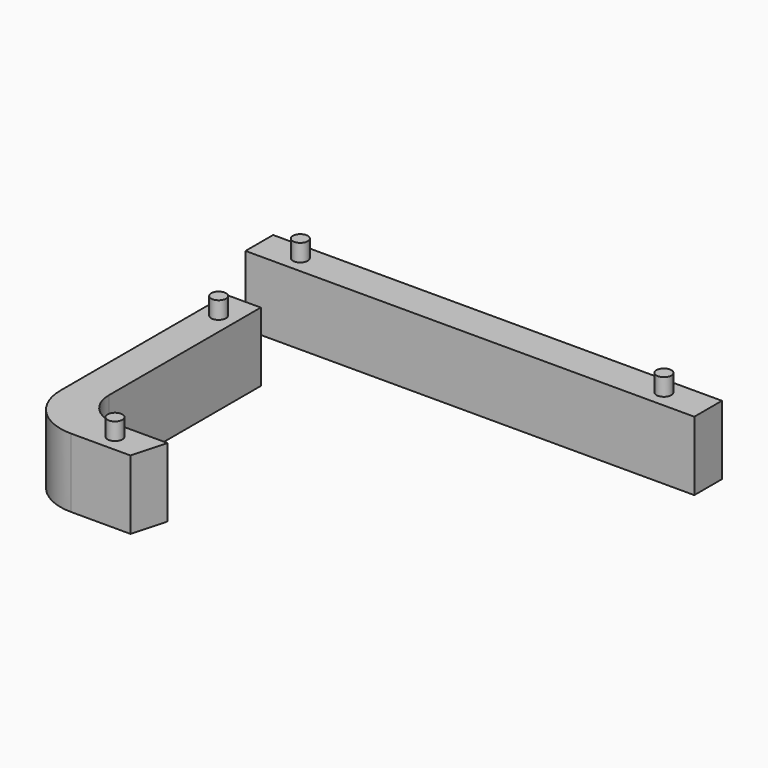
from build123d import *

# Parameters (mm, degrees)
F1_DEPTH = 20
F2_DEPTH = 20
F3_R     = 2.15
F4_DEPTH = 5
F5_R     = 2.15
F6_DEPTH = 5


with BuildPart() as f1:
    # F0 (on Top) → F1 (new body)
    with BuildSketch(Plane.XY):
        Polygon((-47.501586, 34.884202), (-62.501586, 34.884202), (-62.501586, 24.884202), (67.498414, 24.884202), (67.498414, 29.884202), (67.498414, 34.884202), (52.498414, 34.884202), align=None)
    extrude(amount=F1_DEPTH)

    # F3 (on face) → F4 (join)
    with BuildSketch(Plane.XY.offset(20)):
        with Locations((-50.611738, 29.884202)):
            Circle(F3_R)
        with Locations((54.697819, 29.884202)):
            Circle(F3_R)
    extrude(amount=F4_DEPTH)


with BuildPart() as f2:
    # F0 (on Top) → F2 (new body)
    with BuildSketch(Plane.XY):
        with BuildLine():
            Line((-42.473806, -49.615479), (-42.473806, 5.384521))
            Line((-42.473806, 5.384521), (-52.473806, 5.384521))
            Line((-52.473806, 5.384521), (-52.473806, -54.615479))
            ThreePointArc((-52.473806, -54.615479), (-48.080408, -65.222081), (-37.473806, -69.615479))
            Line((-37.473806, -69.615479), (-20.242885, -69.615479))
            Line((-20.242885, -69.615479), (-17.473806, -59.615479))
            Line((-17.473806, -59.615479), (-32.473806, -59.615479))
            ThreePointArc((-32.473806, -59.615479), (-39.544874, -56.686547), (-42.473806, -49.615479))
        make_face()
    extrude(amount=F2_DEPTH)

    # F5 (on face) → F6 (join)
    with BuildSketch(Plane.XY.offset(20)):
        with Locations((-47.473806, -3.621757)):
            Circle(F5_R)
        with Locations((-28.69546, -64.615479)):
            Circle(F5_R)
    extrude(amount=F6_DEPTH)


solid = Compound([f1.part, f2.part])
